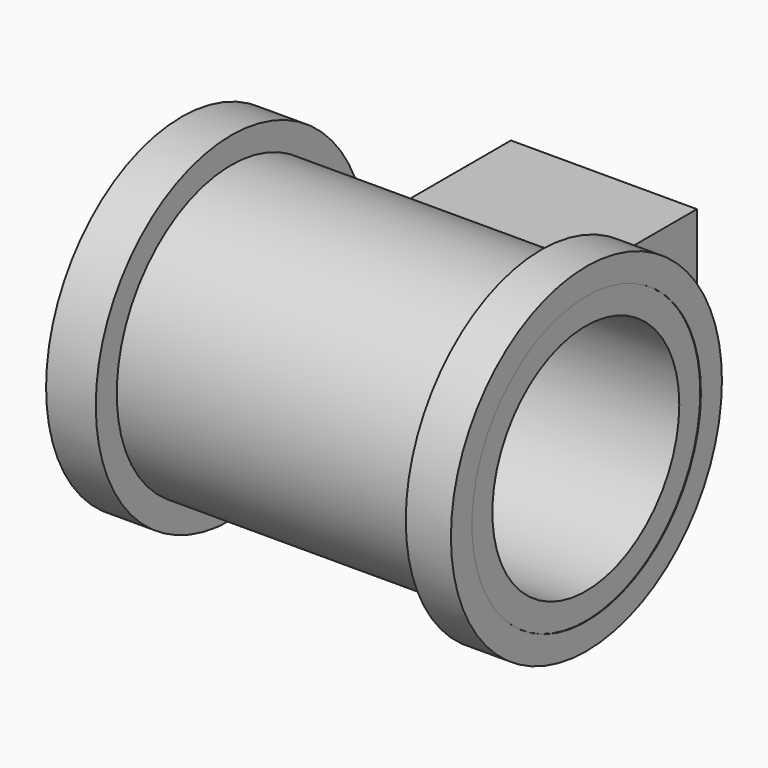
from build123d import *

# Parameters (mm, degrees)
F0_R     = 19.05
F0_R_2   = 16.099385
F1_DEPTH = 5.588
F0_R_3   = 13.139172
F2_DEPTH = 45.466
F4_R     = 19.05
F4_R_2   = 16.099385
F5_DEPTH = 5.08
F6_W     = 20.917241
F6_H     = 17.11411
F7_DEPTH = 15.748


with BuildPart() as f1:
    # F0 (on Right) → F1 (new body)
    with BuildSketch(Plane.YZ):
        with Locations((-29.364781, 37.427243)):
            Circle(F0_R)
        with Locations((-29.364781, 37.427243)):
            Circle(F0_R_2, mode=Mode.SUBTRACT)
    extrude(amount=F1_DEPTH)

    # F0 (on Right) → F2 (join)
    with BuildSketch(Plane.YZ):
        with Locations((-29.364781, 37.427243)):
            Circle(F0_R_2)
        with Locations((-29.364781, 37.427243)):
            Circle(F0_R_3, mode=Mode.SUBTRACT)
    extrude(amount=F2_DEPTH)

    # F4 (on offset) → F5 (join)
    with BuildSketch(Plane.YZ.offset(45.5422)):
        with Locations((-29.376194, 37.433792)):
            Circle(F4_R)
        with Locations((-29.376194, 37.433792)):
            Circle(F4_R_2, mode=Mode.SUBTRACT)
    extrude(amount=-F5_DEPTH)

    # F6 (on Front) → F7 (join)
    with BuildSketch(Plane.XZ):
        with Locations((24.008229, 38.051244)):
            Rectangle(F6_W, F6_H)
    extrude(amount=F7_DEPTH)


solid = f1.part
